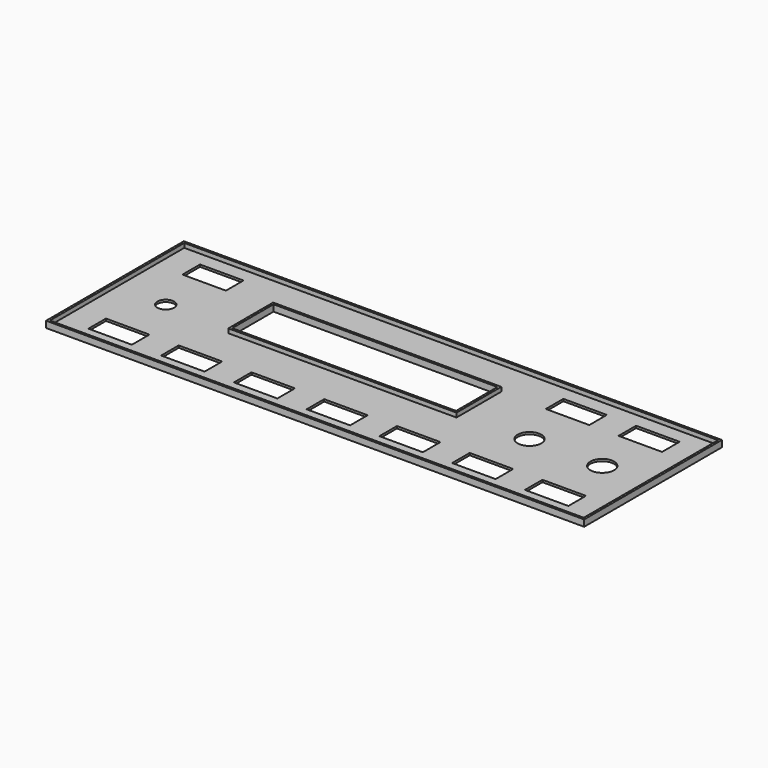
from build123d import *

# Parameters (mm, degrees)
F0_W     = 158.75
F0_H     = 50.8
F0_W_2   = 12.827
F0_H_2   = 6.477
F0_W_3   = 66.04
F0_H_3   = 15.24
F1_DEPTH = 0.635
F2_D     = 6.985
F3_D     = 6.985
F5_W     = 158.75
F5_H     = 50.8
F5_W_2   = 157.48
F5_H_2   = 49.53
F6_DEPTH = 1.27
F7_W     = 67.31
F7_H     = 16.51
F7_W_2   = 66.04
F7_H_2   = 15.24
F8_DEPTH = 1.27
F9_D     = 4.953


with BuildPart() as f1:
    # F0 (on Top) → F1 (new body)
    with BuildSketch(Plane.XY):
        Rectangle(F0_W, F0_H)
        with Locations((-64.389, -17.272)):
            Rectangle(F0_W_2, F0_H_2, mode=Mode.SUBTRACT)
        with Locations((-42.926, -17.272)):
            Rectangle(F0_W_2, F0_H_2, mode=Mode.SUBTRACT)
        with Locations((-21.463, -17.272)):
            Rectangle(F0_W_2, F0_H_2, mode=Mode.SUBTRACT)
        with Locations((0, -17.272)):
            Rectangle(F0_W_2, F0_H_2, mode=Mode.SUBTRACT)
        with Locations((21.463, -17.272)):
            Rectangle(F0_W_2, F0_H_2, mode=Mode.SUBTRACT)
        with Locations((42.926, -17.272)):
            Rectangle(F0_W_2, F0_H_2, mode=Mode.SUBTRACT)
        with Locations((64.389, -17.272)):
            Rectangle(F0_W_2, F0_H_2, mode=Mode.SUBTRACT)
        with Locations((-10.541, 6.096)):
            Rectangle(F0_W_3, F0_H_3, mode=Mode.SUBTRACT)
        with Locations((-64.3255, 17.3355)):
            Rectangle(F0_W_2, F0_H_2, mode=Mode.SUBTRACT)
        with Locations((42.926, 17.272)):
            Rectangle(F0_W_2, F0_H_2, mode=Mode.SUBTRACT)
        with Locations((64.389, 17.272)):
            Rectangle(F0_W_2, F0_H_2, mode=Mode.SUBTRACT)
    extrude(amount=F1_DEPTH)

    # F2 (through all)
    with Locations(Plane(origin=(0, 0, 0), x_dir=(1, 0, 0), z_dir=(0, 0, -1))):
        with Locations((42.926, 0)):
            Hole(F2_D / 2)

    # F3 (through all)
    with Locations(Plane(origin=(0, 0, 0), x_dir=(1, 0, 0), z_dir=(0, 0, -1))):
        with Locations((64.389, 0)):
            Hole(F3_D / 2)

    # F5 (on offset) → F6 (join)
    with BuildSketch(Plane.XY.offset(0.635)):
        Rectangle(F5_W, F5_H)
        Rectangle(F5_W_2, F5_H_2, mode=Mode.SUBTRACT)
    extrude(amount=F6_DEPTH)

    # F7 (on offset) → F8 (join)
    with BuildSketch(Plane.XY.offset(0.635)):
        with Locations((-10.541, 6.096)):
            Rectangle(F7_W, F7_H)
        with Locations((-10.541, 6.096)):
            Rectangle(F7_W_2, F7_H_2, mode=Mode.SUBTRACT)
    extrude(amount=F8_DEPTH)

    # F9 (through all)
    with Locations(Plane(origin=(0, 0, 0), x_dir=(1, 0, 0), z_dir=(0, 0, -1))):
        with Locations((-64.389, 0)):
            Hole(F9_D / 2)


solid = f1.part
